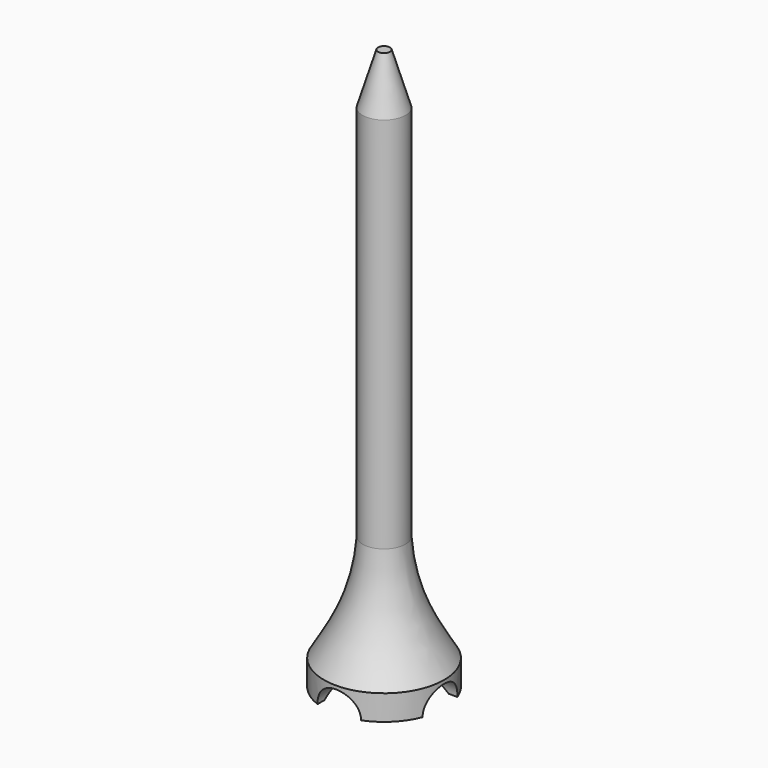
from build123d import *

# Parameters (mm, degrees)
F2_R     = 2.725
F3_DEPTH = 7.5
F4_R     = 2.725
F5_DEPTH = 7.5


with BuildPart() as f1:
    # F0 (on Front) → F1 (revolve)
    with BuildSketch(Plane.XZ):
        with BuildLine():
            Line((0, 70), (0, 3.15))
            Line((0, 3.15), (1, 3.15))
            add(Edge.make_bspline(
                [(1, 3.15), (2.04091373, 2.841939317), (4.1227411901, 2.2258179509), (5.7075803967, 0.741939317), (6.5, 0)],
                knots=[0, 0, 0, 0, 0.5, 1, 1, 1, 1], degree=3))
            Line((6.5, 0), (7.5, 0))
            Line((7.5, 0), (7.5, 3.15))
            add(Edge.make_bspline(
                [(7.5, 3.15), (5.2801080633, 6.8420764949), (3.0602161266, 10.5341529899), (2.675, 16.5)],
                knots=[0, 0, 0, 0, 0.3422357012, 0.3422357012, 0.3422357012, 0.3422357012], degree=3))
            add(Edge.make_bspline(
                [(2.675, 16.5), (2.5909368652, 17.8018868292), (2.5942435778, 19.2120538145), (2.675, 20.7182066219)],
                knots=[0.3422357012, 0.3422357012, 0.3422357012, 0.3422357012, 0.4169195057, 0.4169195057, 0.4169195057, 0.4169195057], degree=3))
            Line((2.675, 20.7182066219), (2.675, 63.65))
            Line((2.675, 63.65), (0.75, 70))
            Line((0.75, 70), (0, 70))
        make_face()
        with BuildLine():
            Line((2.675, 16.5), (2.675, 20.7182066219))
            add(Edge.make_bspline(
                [(2.675, 16.5), (2.5909368652, 17.8018868292), (2.5942435778, 19.2120538145), (2.675, 20.7182066219)],
                knots=[0.3422357012, 0.3422357012, 0.3422357012, 0.3422357012, 0.4169195057, 0.4169195057, 0.4169195057, 0.4169195057], degree=3))
        make_face()
    revolve(axis=Axis((0, 0, 35), (0, 0, 1)))

    # F2 (on Front) → F3 (cut, symmetric)
    with BuildSketch(Plane.XZ):
        Circle(F2_R)
    extrude(amount=F3_DEPTH, both=True, mode=Mode.SUBTRACT)

    # F4 (on Right) → F5 (cut, symmetric)
    with BuildSketch(Plane.YZ):
        Circle(F4_R)
    extrude(amount=F5_DEPTH, both=True, mode=Mode.SUBTRACT)


solid = f1.part
